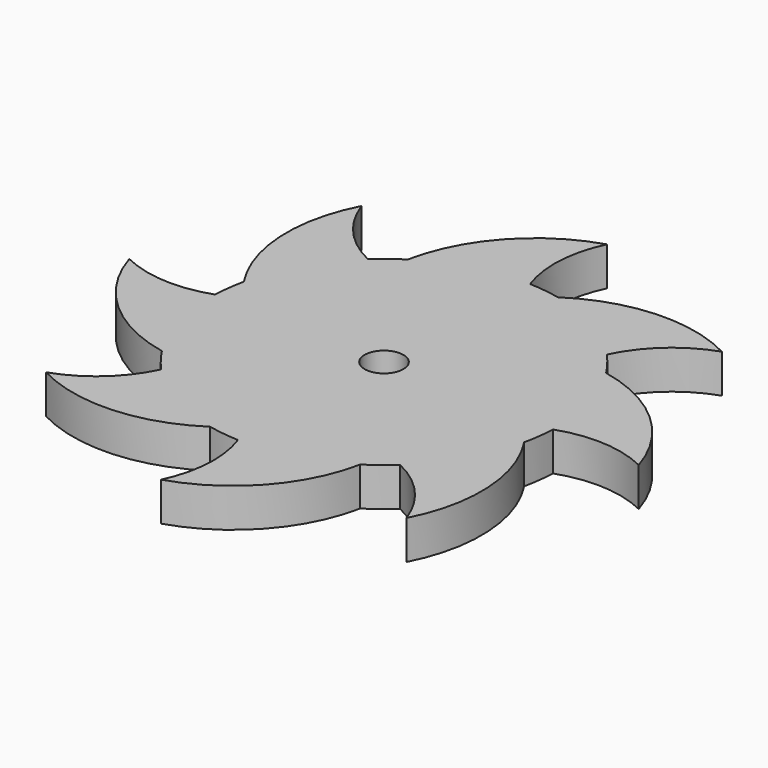
from build123d import *

# Parameters (mm, degrees)
F1_DEPTH = 2
F2_R     = 1
F3_DEPTH = 2.001


with BuildPart() as f1:
    # F0 (on Top) → F1 (new body)
    with BuildSketch(Plane.XY):
        with BuildLine():
            ThreePointArc((8.993366, -0.345496), (8.998341, -0.17278), (9, 0))
            ThreePointArc((9, 0), (8.639572, 2.521468), (7.587156, 4.840978))
            ThreePointArc((7.587156, 4.840978), (7.1239, 5.500004), (6.603572, 6.114968))
            ThreePointArc((6.603572, 6.114968), (4.476865, 7.80754), (1.941841, 8.788018))
            ThreePointArc((1.941841, 8.788018), (1.148268, 8.926448), (0.345496, 8.993366))
            ThreePointArc((0.345496, 8.993366), (-2.355143, 8.686386), (-4.840978, 7.587156))
            ThreePointArc((-4.840978, 7.587156), (-5.500004, 7.1239), (-6.114968, 6.603572))
            ThreePointArc((-6.114968, 6.603572), (-7.80754, 4.476865), (-8.788018, 1.941841))
            ThreePointArc((-8.788018, 1.941841), (-8.926448, 1.148268), (-8.993366, 0.345496))
            ThreePointArc((-8.993366, 0.345496), (-8.686386, -2.355143), (-7.587156, -4.840978))
            ThreePointArc((-7.587156, -4.840978), (-7.1239, -5.500004), (-6.603572, -6.114968))
            ThreePointArc((-6.603572, -6.114968), (-4.476865, -7.80754), (-1.941841, -8.788018))
            ThreePointArc((-1.941841, -8.788018), (-1.148268, -8.926448), (-0.345496, -8.993366))
            ThreePointArc((-0.345496, -8.993366), (2.355143, -8.686386), (4.840978, -7.587156))
            ThreePointArc((4.840978, -7.587156), (5.500004, -7.1239), (6.114968, -6.603572))
            ThreePointArc((6.114968, -6.603572), (7.80754, -4.476865), (8.788018, -1.941841))
            ThreePointArc((8.788018, -1.941841), (8.926448, -1.148268), (8.993366, -0.345496))
        make_face()
        with BuildLine():
            ThreePointArc((7.587156, 4.840978), (8.639572, 2.521468), (9, 0))
            ThreePointArc((9, 0), (8.998341, -0.17278), (8.993366, -0.345496))
            ThreePointArc((8.993366, -0.345496), (11.340482, -0.009668), (13.634428, -0.609287))
            ThreePointArc((13.634428, -0.609287), (11.355908, 2.94258), (7.587156, 4.840978))
        make_face()
        with BuildLine():
            ThreePointArc((1.941841, 8.788018), (4.476865, 7.80754), (6.603572, 6.114968))
            ThreePointArc((6.603572, 6.114968), (8.025768, 8.012095), (10.071827, 9.210166))
            ThreePointArc((10.071827, 9.210166), (5.949121, 10.110557), (1.941841, 8.788018))
        make_face()
        with BuildLine():
            ThreePointArc((9.210166, -10.071827), (10.110557, -5.949121), (8.788018, -1.941841))
            ThreePointArc((8.788018, -1.941841), (7.80754, -4.476865), (6.114968, -6.603572))
            ThreePointArc((6.114968, -6.603572), (8.012095, -8.025768), (9.210166, -10.071827))
        make_face()
        with BuildLine():
            ThreePointArc((-4.840978, 7.587156), (-2.355143, 8.686386), (0.345496, 8.993366))
            ThreePointArc((0.345496, 8.993366), (0.009668, 11.340482), (0.609287, 13.634428))
            ThreePointArc((0.609287, 13.634428), (-2.94258, 11.355908), (-4.840978, 7.587156))
        make_face()
        with BuildLine():
            ThreePointArc((-0.609287, -13.634428), (2.94258, -11.355908), (4.840978, -7.587156))
            ThreePointArc((4.840978, -7.587156), (2.355143, -8.686386), (-0.345496, -8.993366))
            ThreePointArc((-0.345496, -8.993366), (-0.009668, -11.340482), (-0.609287, -13.634428))
        make_face()
        with BuildLine():
            ThreePointArc((-8.788018, 1.941841), (-7.80754, 4.476865), (-6.114968, 6.603572))
            ThreePointArc((-6.114968, 6.603572), (-8.012095, 8.025768), (-9.210166, 10.071827))
            ThreePointArc((-9.210166, 10.071827), (-10.110557, 5.949121), (-8.788018, 1.941841))
        make_face()
        with BuildLine():
            ThreePointArc((-10.071827, -9.210166), (-5.949121, -10.110557), (-1.941841, -8.788018))
            ThreePointArc((-1.941841, -8.788018), (-4.476865, -7.80754), (-6.603572, -6.114968))
            ThreePointArc((-6.603572, -6.114968), (-8.025768, -8.012095), (-10.071827, -9.210166))
        make_face()
        with BuildLine():
            ThreePointArc((-7.587156, -4.840978), (-8.686386, -2.355143), (-8.993366, 0.345496))
            ThreePointArc((-8.993366, 0.345496), (-11.340482, 0.009668), (-13.634428, 0.609287))
            ThreePointArc((-13.634428, 0.609287), (-11.355908, -2.94258), (-7.587156, -4.840978))
        make_face()
    extrude(amount=F1_DEPTH)

    # F2 (on face) → F3 (cut, through all)
    with BuildSketch(Plane.XY.offset(2)):
        Circle(F2_R)
    extrude(amount=-F3_DEPTH, mode=Mode.SUBTRACT)


solid = f1.part
